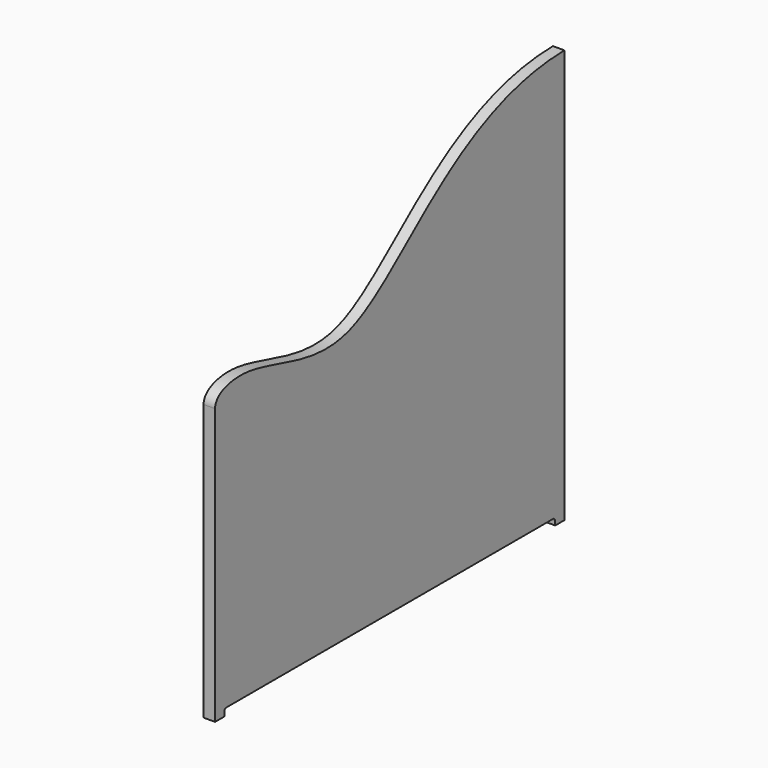
from build123d import *

# Parameters (mm, degrees)
F1_DEPTH = 25.4


with BuildPart() as f1:
    # F0 (on Right) → F1 (new body)
    with BuildSketch(Plane.YZ):
        with BuildLine():
            add(Edge.make_bspline(
                [(-60.2963551223, 564.6858811378), (-60.0320473313, 591.2725925446), (46.9638078803, 626.4810392378), (366.3967390835, 445.378562913), (592.6715987205, 864.8102179789), (904.9036448777, 869.6396498621)],
                knots=[0, 0, 0, 0, 0.1835317768, 0.5046537257, 1, 1, 1, 1], degree=3))
            Line((-60.2963551223, 564.6858811378), (-60.2963551223, -44.9141188622))
            Line((-60.2963551223, -44.9141188622), (-34.8963551223, -44.9141188622))
            Line((-34.8963551223, -44.9141188622), (-34.8963551223, -35.8365239412))
            ThreePointArc((-34.8963551223, -35.8365239412), (-33.0364831829, -31.3463958806), (-28.5463551223, -29.4865239412))
            Line((-28.5463551223, -29.4865239412), (873.1536448777, -29.4865239412))
            ThreePointArc((873.1536448777, -29.4865239412), (877.6437729382, -31.3463958806), (879.5036448777, -35.8365239412))
            Line((879.5036448777, -35.8365239412), (879.5036448777, -44.7603501379))
            Line((879.5036448777, -44.7603501379), (904.9036448777, -44.7603501379))
            Line((904.9036448777, -44.7603501379), (904.9036448777, 869.6396498621))
        make_face()
    extrude(amount=F1_DEPTH)


solid = f1.part
